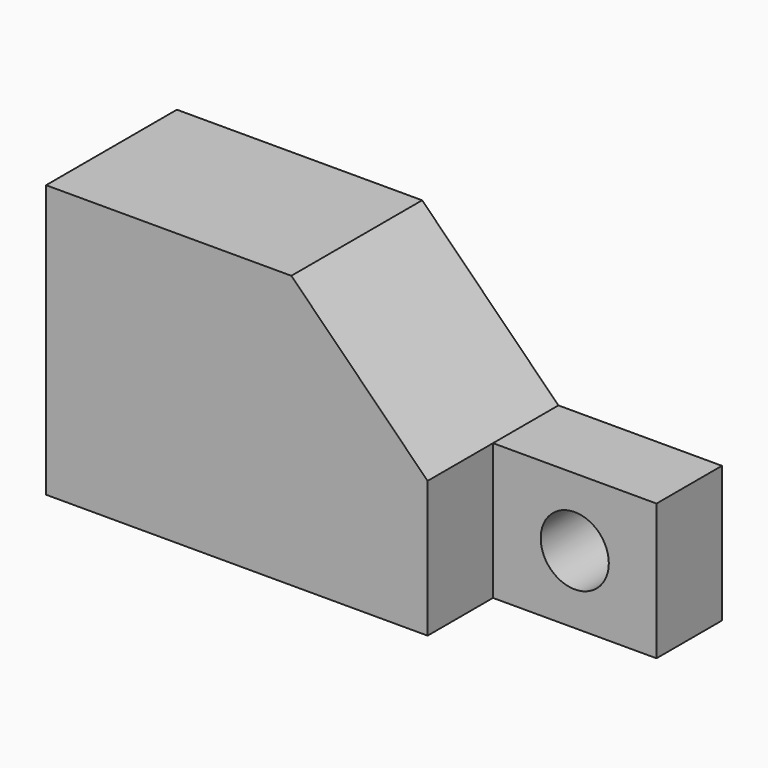
from build123d import *

# Parameters (mm, degrees)
F1_DEPTH = 38.1
F0_R     = 7.9375
F2_DEPTH = 19.05


with BuildPart() as f1:
    # F0 (on Front) → F1 (new body)
    with BuildSketch(Plane.XZ):
        Polygon((-63.5, 31.75), (-63.5, -31.75), (25.4, -31.75), (25.4, 0), (-6.35, 31.75), align=None)
    extrude(amount=F1_DEPTH)

    # F0 (on Front) → F2 (join)
    with BuildSketch(Plane.XZ):
        Polygon((-63.5, 31.75), (-63.5, -31.75), (25.4, -31.75), (25.4, 0), (-6.35, 31.75), align=None)
        Polygon((25.4, 0), (25.4, -31.75), (63.5, -31.75), (63.5, -15.875), (63.5, 0), (44.45, 0), align=None)
        with Locations((44.45, -15.875)):
            Circle(F0_R, mode=Mode.SUBTRACT)
    extrude(amount=F2_DEPTH)


solid = f1.part
